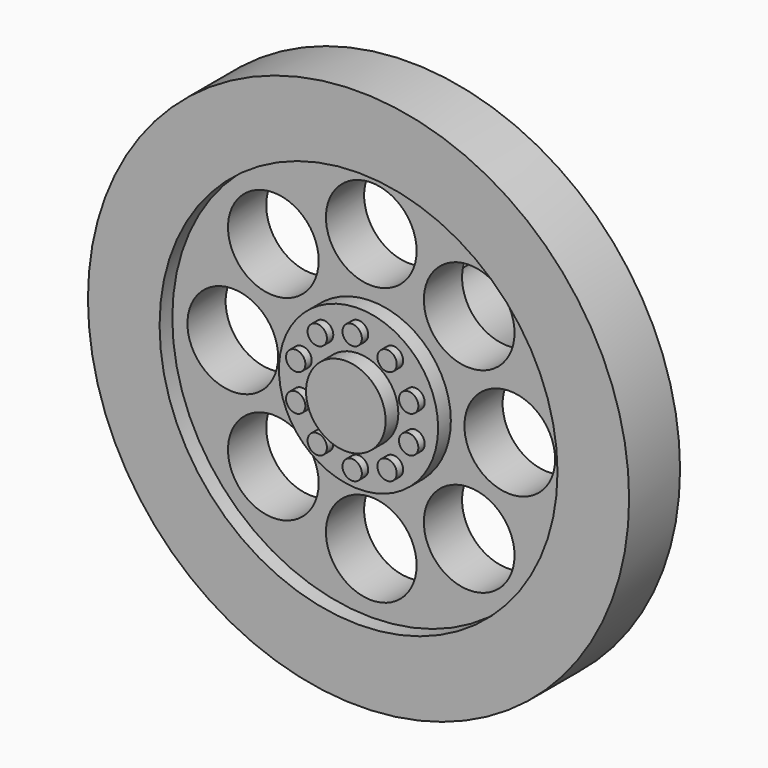
from build123d import *

# Parameters (mm, degrees)
F0_R      = 17
F1_DEPTH  = 4
F2_R      = 12.5
F3_DEPTH  = 1
F4_R      = 5
F5_DEPTH  = 1
F6_R      = 2.5
F7_DEPTH  = 1
F8_R      = 2.848441
F9_DEPTH  = 5
F10_R     = 0.607579
F11_DEPTH = 0.5
F12_R     = 3
F13_DEPTH = 9
F14_R     = 2.131579
F15_DEPTH = 8


with BuildPart() as f1:
    # F0 (on Front) → F1 (new body)
    with BuildSketch(Plane.XZ):
        Circle(F0_R)
    extrude(amount=F1_DEPTH)

    # F2 (on face) → F3 (cut)
    with BuildSketch(Plane.XZ.offset(4)):
        Circle(F2_R)
    extrude(amount=-F3_DEPTH, mode=Mode.SUBTRACT)

    # F4 (on face) → F5 (join)
    with BuildSketch(Plane.XZ.offset(3)):
        Circle(F4_R)
    extrude(amount=F5_DEPTH)

    # F6 (on face) → F7 (join)
    with BuildSketch(Plane.XZ.offset(4)):
        Circle(F6_R)
    extrude(amount=F7_DEPTH)

    # F8 (on face) → F9 (cut)
    with BuildSketch(Plane.XZ.offset(3)):
        with Locations((-6.152258, 6.152258)):
            Circle(F8_R)
        with Locations((-8.700607, 0)):
            Circle(F8_R)
        with Locations((-6.152258, -6.152258)):
            Circle(F8_R)
        with Locations((0, -8.700607)):
            Circle(F8_R)
        with Locations((6.152258, -6.152258)):
            Circle(F8_R)
        with Locations((8.700607, 0)):
            Circle(F8_R)
        with Locations((6.152258, 6.152258)):
            Circle(F8_R)
        with Locations((0, 8.700607)):
            Circle(F8_R)
    extrude(amount=-F9_DEPTH, mode=Mode.SUBTRACT)

    # F10 (on face) → F11 (join)
    with BuildSketch(Plane.XZ.offset(4)):
        with Locations((0, 3.731649)):
            Circle(F10_R)
        with Locations((-2.193408, 3.018968)):
            Circle(F10_R)
        with Locations((-3.549009, 1.153143)):
            Circle(F10_R)
        with Locations((-3.549009, -1.153143)):
            Circle(F10_R)
        with Locations((-2.193408, -3.018968)):
            Circle(F10_R)
        with Locations((0, -3.731649)):
            Circle(F10_R)
        with Locations((2.193408, -3.018968)):
            Circle(F10_R)
        with Locations((3.549009, -1.153143)):
            Circle(F10_R)
        with Locations((3.549009, 1.153143)):
            Circle(F10_R)
        with Locations((2.193408, 3.018968)):
            Circle(F10_R)
    extrude(amount=F11_DEPTH)

    # F12 (on face) → F13 (join)
    with BuildSketch(Plane(origin=(0, 0, 0), x_dir=(-1, 0, 0), z_dir=(0, 1, 0))):
        Circle(F12_R)
    extrude(amount=F13_DEPTH)

    # F14 (on face) → F15 (cut)
    with BuildSketch(Plane(origin=(0, 9, 0), x_dir=(-1, 0, 0), z_dir=(0, 1, 0))):
        Circle(F14_R)
    extrude(amount=-F15_DEPTH, mode=Mode.SUBTRACT)


solid = f1.part
